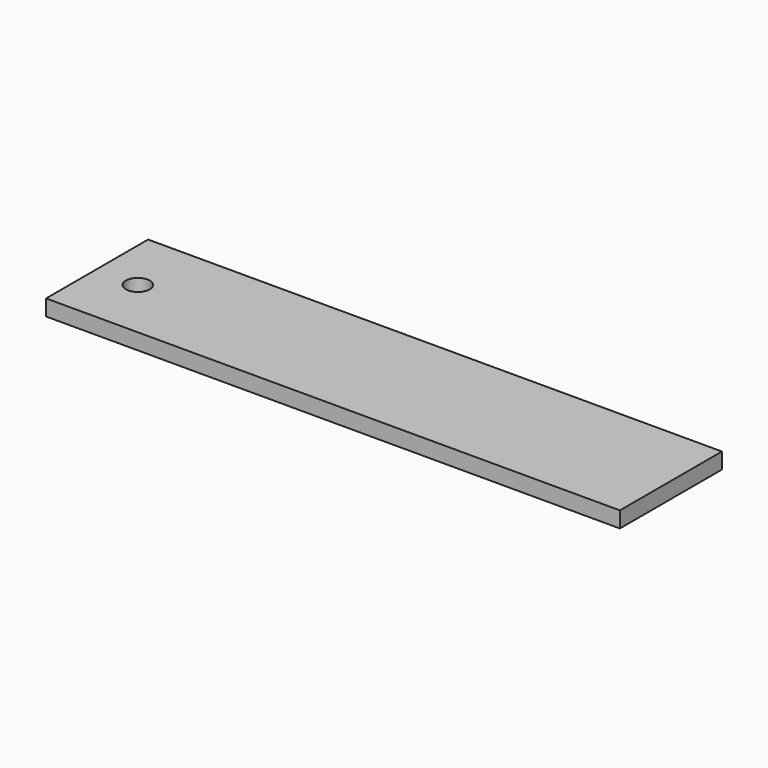
from build123d import *

# Parameters (mm, degrees)
F0_W     = 914.4
F0_H     = 203.2
F0_R     = 19.05
F1_DEPTH = 25.4


with BuildPart() as f1:
    # F0 (on Top) → F1 (new body)
    with BuildSketch(Plane.XY):
        with Locations((-12.977471, 1.923766)):
            Rectangle(F0_W, F0_H)
        with Locations((-403.652728, 0)):
            Circle(F0_R, mode=Mode.SUBTRACT)
        with Locations((-12.977471, 1.923766)):
            Rectangle(F0_W, F0_H)
        with Locations((-403.652728, 0)):
            Circle(F0_R, mode=Mode.SUBTRACT)
    extrude(amount=F1_DEPTH)


solid = f1.part
